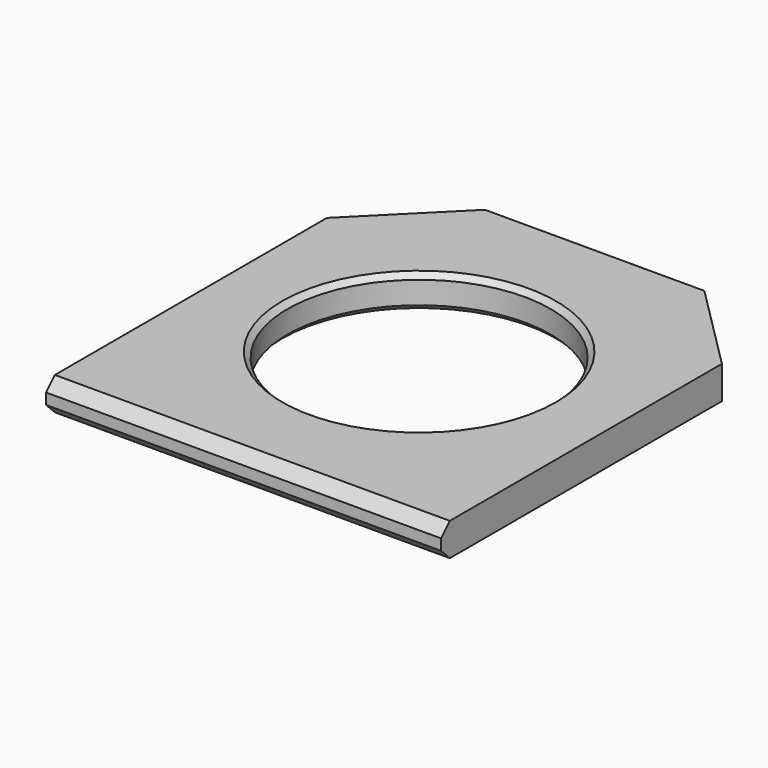
from build123d import *

# Parameters (mm, degrees)
F0_W     = 114.3
F0_H     = 127
F0_R     = 38.1
F1_DEPTH = 4.7625
F2_SIZE  = 25.4
F3_SIZE  = 1.524
F4_SIZE  = 3.175


with BuildPart() as f1:
    # F0 (on Top) → F1 (new body, symmetric)
    with BuildSketch(Plane.XY):
        Rectangle(F0_W, F0_H)
        Circle(F0_R, mode=Mode.SUBTRACT)
    extrude(amount=F1_DEPTH, both=True)

    # F2
    f2_edges = [f1.edges().sort_by_distance(p)[0] for p in [
        (57.15, 63.5, 0),
        (-57.15, 63.5, 0),
    ]]
    chamfer(f2_edges, length=F2_SIZE)

    # F3
    f3_edges = [f1.edges().sort_by_distance(p)[0] for p in [
        (-38.1, 0, 4.7625),
        (-38.1, 0, -4.7625),
    ]]
    chamfer(f3_edges, length=F3_SIZE)

    # F4
    f4_edges = [f1.edges().sort_by_distance(p)[0] for p in [
        (0, -63.5, 4.7625),
        (0, -63.5, -4.7625),
    ]]
    chamfer(f4_edges, length=F4_SIZE)


solid = f1.part
